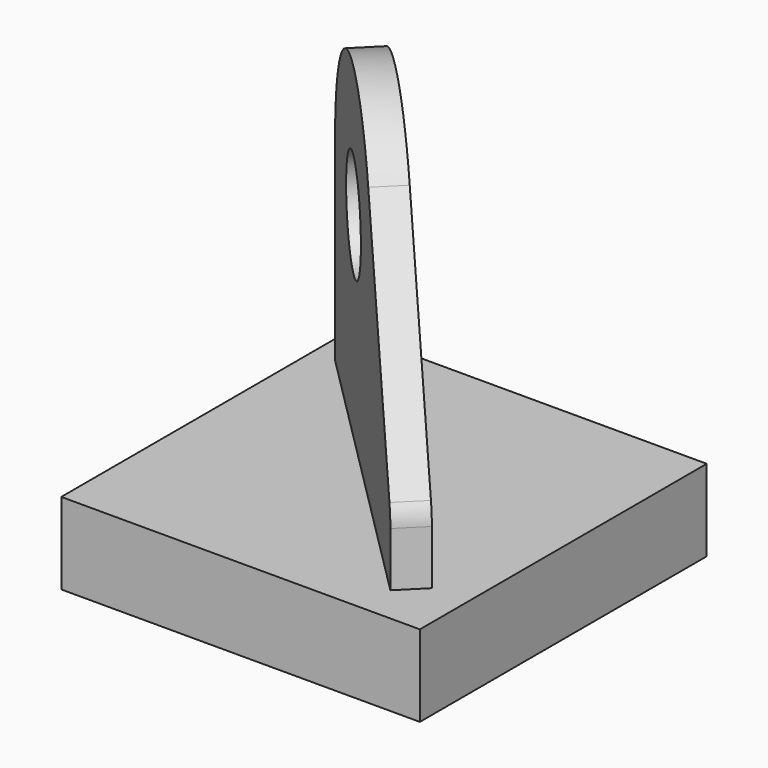
from build123d import *

# Parameters (mm, degrees)
F0_W     = 110
F0_H     = 110
F1_DEPTH = 25
F3_DEPTH = 120
F4_R     = 16
F5_DEPTH = 25


with BuildPart() as f1:
    # F0 (on Top) → F1 (new body)
    with BuildSketch(Plane.XY):
        with Locations((55, 55)):
            Rectangle(F0_W, F0_H)
    extrude(amount=F1_DEPTH)

    # F2 (on face) → F3 (join)
    with BuildSketch(Plane.XY.offset(25)):
        Polygon((14.045202, 103.334524), (6.974134, 96.263456), (91.826948, 11.410642), (98.898016, 18.48171), align=None)
    extrude(amount=F3_DEPTH)

    # F4 (on face) → F5 (cut)
    with BuildSketch(Plane(origin=(58.689863, 58.689863, 0), x_dir=(-0.707107, 0.707107, 0), z_dir=(0.707107, 0.707107, 0))):
        with BuildLine():
            ThreePointArc((-8.862915, 109), (35.786196, 122.947332), (63.137085, 85))
            Line((63.137085, 85), (63.246235, 158.167794))
            Line((63.246235, 158.167794), (-56.862915, 158.167794))
            Line((-56.862915, 158.167794), (-56.862915, 41.666667))
            ThreePointArc((-56.862915, 41.666667), (-56.349748, 44.828944), (-54.862915, 47.666667))
            Line((-54.862915, 47.666667), (-8.862915, 109))
        make_face()
        with Locations((23.137085, 85)):
            Circle(F4_R)
    extrude(amount=-F5_DEPTH, mode=Mode.SUBTRACT)


solid = f1.part
